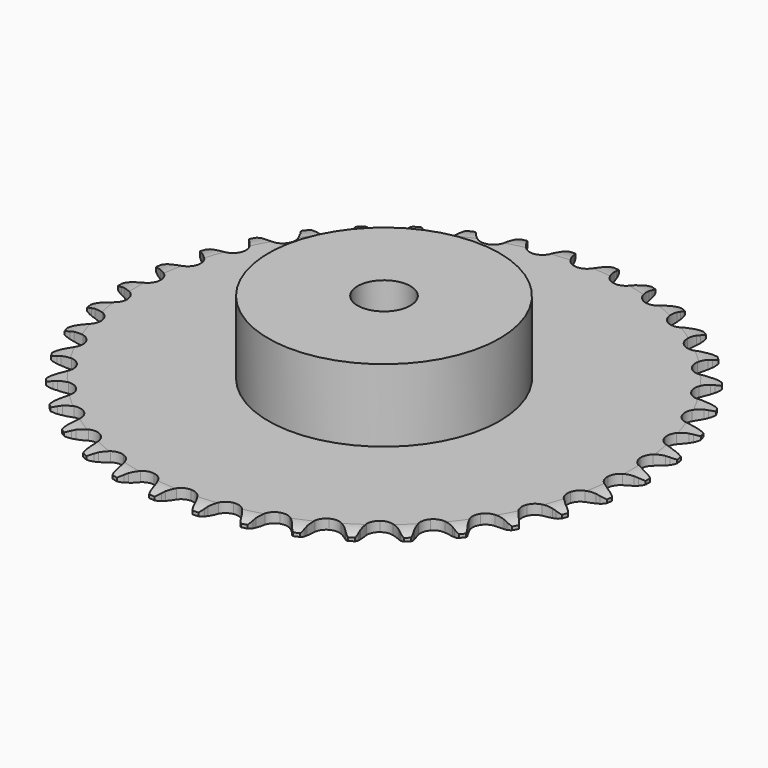
from build123d import *

# Parameters (mm, degrees)
PAD_DEPTH         = 3
SKETCH001_R       = 35
PAD001_DEPTH      = 25
SKETCH002_R       = 8
POCKET_DEPTH      = 0.001
POCKET_DEPTH_BACK = 25.001


with BuildPart() as part:
    # Sprocket → Pad (new body)
    with BuildSketch(Plane.XY):
        with BuildLine():
            ThreePointArc((-6.68958, 80.731222), (-5.640097, 79.553706), (-4.917352, 78.15171))
            Line((-4.917352, 78.15171), (-4.539398, 77.116251))
            ThreePointArc((-4.539398, 77.116251), (-3.941264, 75.784361), (-3.157921, 74.552262))
            ThreePointArc((-3.157921, 74.552262), (-1.767581, 73.382905), (0, 72.963266))
            ThreePointArc((0, 72.963266), (1.767581, 73.382905), (3.157921, 74.552262))
            ThreePointArc((3.157921, 74.552262), (3.941264, 75.784361), (4.539398, 77.116251))
            Line((4.539398, 77.116251), (4.917352, 78.15171))
            ThreePointArc((4.917352, 78.15171), (5.640097, 79.553706), (6.68958, 80.731222))
            ThreePointArc((6.68958, 80.731222), (7.530936, 79.397027), (8.013063, 77.895192))
            Line((8.013063, 77.895192), (8.215431, 76.811646))
            ThreePointArc((8.215431, 76.811646), (8.586185, 75.399472), (9.156048, 74.055243))
            ThreePointArc((9.156048, 74.055243), (10.334956, 72.672993), (12.009359, 71.968143))
            ThreePointArc((12.009359, 71.968143), (13.821903, 72.091124), (15.38575, 73.01569))
            Line((15.38575, 73.01569), (17.170405, 75.317326))
            ThreePointArc((17.170405, 75.317326), (17.428967, 75.804282), (17.713634, 76.276453))
            ThreePointArc((17.713634, 76.276453), (18.657284, 77.540368), (19.886265, 78.529084))
            ThreePointArc((19.886265, 78.529084), (20.496545, 77.074604), (20.724902, 75.513896))
            Line((20.724902, 75.513896), (20.746165, 74.41182))
            ThreePointArc((20.746165, 74.41182), (20.879426, 72.957882), (21.220264, 71.53819))
            ThreePointArc((21.220264, 71.53819), (22.155582, 69.98075), (23.691134, 69.009915))
            ThreePointArc((23.691134, 69.009915), (25.499199, 68.832885), (27.193896, 69.48744))
            Line((27.193896, 69.48744), (29.333047, 71.46394))
            ThreePointArc((29.333047, 71.46394), (29.668234, 71.901696), (30.026735, 72.320573))
            ThreePointArc((30.026735, 72.320573), (31.165548, 73.411931), (32.540505, 74.184878))
            ThreePointArc((32.540505, 74.184878), (32.903062, 72.649786), (32.871421, 71.072778))
            Line((32.871421, 71.072778), (32.710997, 69.982233))
            ThreePointArc((32.710997, 69.982233), (32.603131, 68.526191), (32.705646, 67.069762))
            ThreePointArc((32.705646, 67.069762), (33.371861, 65.379615), (34.726676, 64.169278))
            ThreePointArc((34.726676, 64.169278), (36.480944, 63.697064), (38.260263, 64.063753))
            Line((38.260263, 64.063753), (40.69556, 65.661204))
            ThreePointArc((40.69556, 65.661204), (41.098228, 66.03782), (41.520785, 66.391977))
            ThreePointArc((41.520785, 66.391977), (42.823697, 67.281007), (44.307124, 67.817102))
            ThreePointArc((44.307124, 67.817102), (44.412069, 66.243272), (44.121292, 64.69298))
            Line((44.121292, 64.69298), (43.783559, 63.643714))
            ThreePointArc((43.783559, 63.643714), (43.437507, 62.225284), (43.298904, 60.771845))
            ThreePointArc((43.298904, 60.771845), (43.677844, 58.995094), (44.814966, 57.578269))
            ThreePointArc((44.814966, 57.578269), (46.467583, 56.823753), (48.282991, 56.892575))
            Line((48.282991, 56.892575), (50.948005, 58.067402))
            ThreePointArc((50.948005, 58.067402), (51.407169, 58.372604), (51.882255, 58.65238))
            ThreePointArc((51.882255, 58.65238), (53.313727, 59.314833), (54.865161, 59.599452))
            ThreePointArc((54.865161, 59.599452), (54.70963, 58.029814), (54.16765, 56.548526))
            Line((54.16765, 56.548526), (53.661819, 55.56916))
            ThreePointArc((53.661819, 55.56916), (53.087021, 54.227034), (52.71108, 52.816231))
            ThreePointArc((52.71108, 52.816231), (52.792408, 51.001341), (53.68082, 49.416676))
            ThreePointArc((53.68082, 49.416676), (55.186708, 48.400438), (56.988684, 48.169515))
            Line((56.988684, 48.169515), (59.810721, 48.889672))
            ThreePointArc((59.810721, 48.889672), (60.313858, 49.115136), (60.828514, 49.312899))
            ThreePointArc((60.828514, 49.312899), (62.349498, 49.730705), (63.926619, 49.756085))
            ThreePointArc((63.926619, 49.756085), (63.514855, 48.233454), (62.736455, 46.861576))
            Line((62.736455, 46.861576), (62.076325, 45.978824))
            ThreePointArc((62.076325, 45.978824), (61.28846, 44.749611), (60.685436, 43.419928))
            ThreePointArc((60.685436, 43.419928), (60.466933, 41.616405), (61.082401, 39.907124))
            ThreePointArc((61.082401, 39.907124), (62.400484, 38.656885), (64.139874, 38.132517))
            Line((64.139874, 38.132517), (67.041956, 38.378359))
            ThreePointArc((67.041956, 38.378359), (67.575341, 38.517935), (68.115528, 38.628292))
            ThreePointArc((68.115528, 38.628292), (69.684537, 38.790053), (71.244326, 38.555501))
            ThreePointArc((71.244326, 38.555501), (70.587561, 37.121411), (69.593974, 35.896364))
            Line((69.593974, 35.896364), (68.79755, 35.134305))
            ThreePointArc((68.79755, 35.134305), (67.818109, 34.051536), (67.004451, 32.839242))
            ThreePointArc((67.004451, 32.839242), (66.492078, 31.096281), (66.817813, 29.30901))
            ThreePointArc((66.817813, 29.30901), (67.912137, 27.858874), (69.541496, 27.055363))
            Line((69.541496, 27.055363), (72.444461, 26.820185))
            ThreePointArc((72.444461, 26.820185), (72.993545, 26.870065), (73.544529, 26.890004))
            ThreePointArc((73.544529, 26.890004), (75.118764, 26.791309), (76.618673, 26.303224))
            ThreePointArc((76.618673, 26.303224), (75.734822, 24.996792), (74.55315, 23.951993))
            Line((74.55315, 23.951993), (73.642158, 23.331414))
            ThreePointArc((73.642158, 23.331414), (72.497857, 22.424624), (71.495759, 21.362788))
            ThreePointArc((71.495759, 21.362788), (70.703493, 19.727932), (70.73061, 17.911423))
            ThreePointArc((70.73061, 17.911423), (71.571324, 16.300945), (73.046207, 15.240209))
            Line((73.046207, 15.240209), (75.870871, 14.530427))
            ThreePointArc((75.870871, 14.530427), (76.420676, 14.48925), (76.967427, 14.418228))
            ThreePointArc((76.967427, 14.418228), (78.503946, 14.061768), (79.903063, 13.333463))
            ThreePointArc((79.903063, 13.333463), (78.816235, 12.190327), (77.47871, 11.354274))
            Line((77.47871, 11.354274), (76.477999, 10.892103))
            ThreePointArc((76.477999, 10.892103), (75.200052, 10.186026), (74.036849, 9.303612))
            ThreePointArc((74.036849, 9.303612), (72.9863, 7.821456), (72.71406, 6.025259))
            ThreePointArc((72.71406, 6.025259), (73.278231, 4.298368), (74.558408, 3.009342))
            Line((74.558408, 3.009342), (77.227721, 1.844316))
            ThreePointArc((77.227721, 1.844316), (77.763249, 1.713206), (78.290854, 1.55316))
            ThreePointArc((78.290854, 1.55316), (79.747746, 0.948659), (81.007905, 0))
            ThreePointArc((81.007905, 0), (79.747746, -0.948659), (78.290854, -1.55316))
            Line((78.290854, -1.55316), (77.227721, -1.844316))
            ThreePointArc((77.227721, -1.844316), (75.850986, -2.33042), (74.558408, -3.009342))
            ThreePointArc((74.558408, -3.009342), (73.278231, -4.298368), (72.71406, -6.025259))
            ThreePointArc((72.71406, -6.025259), (72.9863, -7.821456), (74.036849, -9.303612))
            Line((74.036849, -9.303612), (76.477999, -10.892103))
            ThreePointArc((76.477999, -10.892103), (76.984644, -11.109571), (77.47871, -11.354274))
            ThreePointArc((77.47871, -11.354274), (78.816235, -12.190327), (79.903063, -13.333463))
            ThreePointArc((79.903063, -13.333463), (78.503946, -14.061768), (76.967427, -14.418228))
            Line((76.967427, -14.418228), (75.870871, -14.530427))
            ThreePointArc((75.870871, -14.530427), (74.432903, -14.783298), (73.046207, -15.240209))
            ThreePointArc((73.046207, -15.240209), (71.571324, -16.300945), (70.73061, -17.911423))
            ThreePointArc((70.73061, -17.911423), (70.703493, -19.727932), (71.495759, -21.362788))
            Line((71.495759, -21.362788), (73.642158, -23.331414))
            ThreePointArc((73.642158, -23.331414), (74.106099, -23.629306), (74.55315, -23.951993))
            ThreePointArc((74.55315, -23.951993), (75.734822, -24.996792), (76.618673, -26.303224))
            ThreePointArc((76.618673, -26.303224), (75.118764, -26.791309), (73.544529, -26.890004))
            Line((73.544529, -26.890004), (72.444461, -26.820185))
            ThreePointArc((72.444461, -26.820185), (70.984484, -26.832926), (69.541496, -27.055363))
            ThreePointArc((69.541496, -27.055363), (67.912137, -27.858874), (66.817813, -29.30901))
            ThreePointArc((66.817813, -29.30901), (66.492078, -31.096281), (67.004451, -32.839242))
            Line((67.004451, -32.839242), (68.79755, -35.134305))
            ThreePointArc((68.79755, -35.134305), (69.206132, -35.504497), (69.593974, -35.896364))
            ThreePointArc((69.593974, -35.896364), (70.587561, -37.121411), (71.244326, -38.555501))
            ThreePointArc((71.244326, -38.555501), (69.684537, -38.790053), (68.115528, -38.628292))
            Line((68.115528, -38.628292), (67.041956, -38.378359))
            ThreePointArc((67.041956, -38.378359), (65.599794, -38.150622), (64.139874, -38.132517))
            ThreePointArc((64.139874, -38.132517), (62.400484, -38.656885), (61.082401, -39.907124))
            ThreePointArc((61.082401, -39.907124), (60.466933, -41.616405), (60.685436, -43.419928))
            Line((60.685436, -43.419928), (62.076325, -45.978824))
            ThreePointArc((62.076325, -45.978824), (62.418403, -46.411216), (62.736455, -46.861576))
            ThreePointArc((62.736455, -46.861576), (63.514855, -48.233454), (63.926619, -49.756085))
            ThreePointArc((63.926619, -49.756085), (62.349498, -49.730705), (60.828514, -49.312899))
            Line((60.828514, -49.312899), (59.810721, -48.889672))
            ThreePointArc((59.810721, -48.889672), (58.425712, -48.427669), (56.988684, -48.169515))
            ThreePointArc((56.988684, -48.169515), (55.186708, -48.400438), (53.68082, -49.416676))
            ThreePointArc((53.68082, -49.416676), (52.792408, -51.001341), (52.71108, -52.816231))
            Line((52.71108, -52.816231), (53.661819, -55.56916))
            ThreePointArc((53.661819, -55.56916), (53.928062, -56.051959), (54.16765, -56.548526))
            ThreePointArc((54.16765, -56.548526), (54.70963, -58.029814), (54.865161, -59.599452))
            ThreePointArc((54.865161, -59.599452), (53.313727, -59.314833), (51.882255, -58.65238))
            Line((51.882255, -58.65238), (50.948005, -58.067402))
            ThreePointArc((50.948005, -58.067402), (49.657929, -57.383735), (48.282991, -56.892575))
            ThreePointArc((48.282991, -56.892575), (46.467583, -56.823753), (44.814966, -57.578269))
            ThreePointArc((44.814966, -57.578269), (43.677844, -58.995094), (43.298904, -60.771845))
            Line((43.298904, -60.771845), (43.783559, -63.643714))
            ThreePointArc((43.783559, -63.643714), (43.966704, -64.163751), (44.121292, -64.69298))
            ThreePointArc((44.121292, -64.69298), (44.412069, -66.243272), (44.307124, -67.817102))
            ThreePointArc((44.307124, -67.817102), (42.823697, -67.281007), (41.520785, -66.391977))
            Line((41.520785, -66.391977), (40.69556, -65.661204))
            ThreePointArc((40.69556, -65.661204), (39.535608, -64.774522), (38.260263, -64.063753))
            ThreePointArc((38.260263, -64.063753), (36.480944, -63.697064), (34.726676, -64.169278))
            ThreePointArc((34.726676, -64.169278), (33.371861, -65.379615), (32.705646, -67.069762))
            Line((32.705646, -67.069762), (32.710997, -69.982233))
            ThreePointArc((32.710997, -69.982233), (32.806049, -70.525323), (32.871421, -71.072778))
            ThreePointArc((32.871421, -71.072778), (32.903062, -72.649786), (32.540505, -74.184878))
            ThreePointArc((32.540505, -74.184878), (31.165548, -73.411931), (30.026735, -72.320573))
            Line((30.026735, -72.320573), (29.333047, -71.46394))
            ThreePointArc((29.333047, -71.46394), (28.334858, -70.398429), (27.193896, -69.48744))
            ThreePointArc((27.193896, -69.48744), (25.499199, -68.832885), (23.691134, -69.009915))
            ThreePointArc((23.691134, -69.009915), (22.155582, -69.98075), (21.220264, -71.53819))
            Line((21.220264, -71.53819), (20.746165, -74.41182))
            ThreePointArc((20.746165, -74.41182), (20.750531, -74.963148), (20.724902, -75.513896))
            ThreePointArc((20.724902, -75.513896), (20.496545, -77.074604), (19.886265, -78.529084))
            ThreePointArc((19.886265, -78.529084), (18.657284, -77.540368), (17.713634, -76.276453))
            Line((17.713634, -76.276453), (17.170405, -75.317326))
            ThreePointArc((17.170405, -75.317326), (16.361207, -74.102051), (15.38575, -73.01569))
            ThreePointArc((15.38575, -73.01569), (13.821903, -72.091124), (12.009359, -71.968143))
            ThreePointArc((12.009359, -71.968143), (10.334956, -72.672993), (9.156048, -74.055243))
            Line((9.156048, -74.055243), (8.215431, -76.811646))
            ThreePointArc((8.215431, -76.811646), (8.128992, -77.356173), (8.013063, -77.895192))
            ThreePointArc((8.013063, -77.895192), (7.530936, -79.397027), (6.68958, -80.731222))
            ThreePointArc((6.68958, -80.731222), (5.640097, -79.553706), (4.917352, -78.15171))
            Line((4.917352, -78.15171), (4.539398, -77.116251))
            ThreePointArc((4.539398, -77.116251), (3.941264, -75.784361), (3.157921, -74.552262))
            ThreePointArc((3.157921, -74.552262), (1.767581, -73.382905), (0, -72.963266))
            ThreePointArc((0, -72.963266), (-1.767581, -73.382905), (-3.157921, -74.552262))
            Line((-3.157921, -74.552262), (-4.539398, -77.116251))
            ThreePointArc((-4.539398, -77.116251), (-4.714284, -77.639124), (-4.917352, -78.15171))
            ThreePointArc((-4.917352, -78.15171), (-5.640097, -79.553706), (-6.68958, -80.731222))
            ThreePointArc((-6.68958, -80.731222), (-7.530936, -79.397027), (-8.013063, -77.895192))
            Line((-8.013063, -77.895192), (-8.215431, -76.811646))
            ThreePointArc((-8.215431, -76.811646), (-8.586185, -75.399472), (-9.156048, -74.055243))
            ThreePointArc((-9.156048, -74.055243), (-10.334956, -72.672993), (-12.009359, -71.968143))
            ThreePointArc((-12.009359, -71.968143), (-13.821903, -72.091124), (-15.38575, -73.01569))
            Line((-15.38575, -73.01569), (-17.170405, -75.317326))
            ThreePointArc((-17.170405, -75.317326), (-17.428967, -75.804282), (-17.713634, -76.276453))
            ThreePointArc((-17.713634, -76.276453), (-18.657284, -77.540368), (-19.886265, -78.529084))
            ThreePointArc((-19.886265, -78.529084), (-20.496545, -77.074604), (-20.724902, -75.513896))
            Line((-20.724902, -75.513896), (-20.746165, -74.41182))
            ThreePointArc((-20.746165, -74.41182), (-20.879426, -72.957882), (-21.220264, -71.53819))
            ThreePointArc((-21.220264, -71.53819), (-22.155582, -69.98075), (-23.691134, -69.009915))
            ThreePointArc((-23.691134, -69.009915), (-25.499199, -68.832885), (-27.193896, -69.48744))
            Line((-27.193896, -69.48744), (-29.333047, -71.46394))
            ThreePointArc((-29.333047, -71.46394), (-29.668234, -71.901696), (-30.026735, -72.320573))
            ThreePointArc((-30.026735, -72.320573), (-31.165548, -73.411931), (-32.540505, -74.184878))
            ThreePointArc((-32.540505, -74.184878), (-32.903062, -72.649786), (-32.871421, -71.072778))
            Line((-32.871421, -71.072778), (-32.710997, -69.982233))
            ThreePointArc((-32.710997, -69.982233), (-32.603131, -68.526191), (-32.705646, -67.069762))
            ThreePointArc((-32.705646, -67.069762), (-33.371861, -65.379615), (-34.726676, -64.169278))
            ThreePointArc((-34.726676, -64.169278), (-36.480944, -63.697064), (-38.260263, -64.063753))
            Line((-38.260263, -64.063753), (-40.69556, -65.661204))
            ThreePointArc((-40.69556, -65.661204), (-41.098228, -66.03782), (-41.520785, -66.391977))
            ThreePointArc((-41.520785, -66.391977), (-42.823697, -67.281007), (-44.307124, -67.817102))
            ThreePointArc((-44.307124, -67.817102), (-44.412069, -66.243272), (-44.121292, -64.69298))
            Line((-44.121292, -64.69298), (-43.783559, -63.643714))
            ThreePointArc((-43.783559, -63.643714), (-43.437507, -62.225284), (-43.298904, -60.771845))
            ThreePointArc((-43.298904, -60.771845), (-43.677844, -58.995094), (-44.814966, -57.578269))
            ThreePointArc((-44.814966, -57.578269), (-46.467583, -56.823753), (-48.282991, -56.892575))
            Line((-48.282991, -56.892575), (-50.948005, -58.067402))
            ThreePointArc((-50.948005, -58.067402), (-51.407169, -58.372604), (-51.882255, -58.65238))
            ThreePointArc((-51.882255, -58.65238), (-53.313727, -59.314833), (-54.865161, -59.599452))
            ThreePointArc((-54.865161, -59.599452), (-54.70963, -58.029814), (-54.16765, -56.548526))
            Line((-54.16765, -56.548526), (-53.661819, -55.56916))
            ThreePointArc((-53.661819, -55.56916), (-53.087021, -54.227034), (-52.71108, -52.816231))
            ThreePointArc((-52.71108, -52.816231), (-52.792408, -51.001341), (-53.68082, -49.416676))
            ThreePointArc((-53.68082, -49.416676), (-55.186708, -48.400438), (-56.988684, -48.169515))
            Line((-56.988684, -48.169515), (-59.810721, -48.889672))
            ThreePointArc((-59.810721, -48.889672), (-60.313858, -49.115136), (-60.828514, -49.312899))
            ThreePointArc((-60.828514, -49.312899), (-62.349498, -49.730705), (-63.926619, -49.756085))
            ThreePointArc((-63.926619, -49.756085), (-63.514855, -48.233454), (-62.736455, -46.861576))
            Line((-62.736455, -46.861576), (-62.076325, -45.978824))
            ThreePointArc((-62.076325, -45.978824), (-61.28846, -44.749611), (-60.685436, -43.419928))
            ThreePointArc((-60.685436, -43.419928), (-60.466933, -41.616405), (-61.082401, -39.907124))
            ThreePointArc((-61.082401, -39.907124), (-62.400484, -38.656885), (-64.139874, -38.132517))
            Line((-64.139874, -38.132517), (-67.041956, -38.378359))
            ThreePointArc((-67.041956, -38.378359), (-67.575341, -38.517935), (-68.115528, -38.628292))
            ThreePointArc((-68.115528, -38.628292), (-69.684537, -38.790053), (-71.244326, -38.555501))
            ThreePointArc((-71.244326, -38.555501), (-70.587561, -37.121411), (-69.593974, -35.896364))
            Line((-69.593974, -35.896364), (-68.79755, -35.134305))
            ThreePointArc((-68.79755, -35.134305), (-67.818109, -34.051536), (-67.004451, -32.839242))
            ThreePointArc((-67.004451, -32.839242), (-66.492078, -31.096281), (-66.817813, -29.30901))
            ThreePointArc((-66.817813, -29.30901), (-67.912137, -27.858874), (-69.541496, -27.055363))
            Line((-69.541496, -27.055363), (-72.444461, -26.820185))
            ThreePointArc((-72.444461, -26.820185), (-72.993545, -26.870065), (-73.544529, -26.890004))
            ThreePointArc((-73.544529, -26.890004), (-75.118764, -26.791309), (-76.618673, -26.303224))
            ThreePointArc((-76.618673, -26.303224), (-75.734822, -24.996792), (-74.55315, -23.951993))
            Line((-74.55315, -23.951993), (-73.642158, -23.331414))
            ThreePointArc((-73.642158, -23.331414), (-72.497857, -22.424624), (-71.495759, -21.362788))
            ThreePointArc((-71.495759, -21.362788), (-70.703493, -19.727932), (-70.73061, -17.911423))
            ThreePointArc((-70.73061, -17.911423), (-71.571324, -16.300945), (-73.046207, -15.240209))
            Line((-73.046207, -15.240209), (-75.870871, -14.530427))
            ThreePointArc((-75.870871, -14.530427), (-76.420676, -14.48925), (-76.967427, -14.418228))
            ThreePointArc((-76.967427, -14.418228), (-78.503946, -14.061768), (-79.903063, -13.333463))
            ThreePointArc((-79.903063, -13.333463), (-78.816235, -12.190327), (-77.47871, -11.354274))
            Line((-77.47871, -11.354274), (-76.477999, -10.892103))
            ThreePointArc((-76.477999, -10.892103), (-75.200052, -10.186026), (-74.036849, -9.303612))
            ThreePointArc((-74.036849, -9.303612), (-72.9863, -7.821456), (-72.71406, -6.025259))
            ThreePointArc((-72.71406, -6.025259), (-73.278231, -4.298368), (-74.558408, -3.009342))
            Line((-74.558408, -3.009342), (-77.227721, -1.844316))
            ThreePointArc((-77.227721, -1.844316), (-77.763249, -1.713206), (-78.290854, -1.55316))
            ThreePointArc((-78.290854, -1.55316), (-79.747746, -0.948659), (-81.007905, 0))
            ThreePointArc((-81.007905, 0), (-79.747746, 0.948659), (-78.290854, 1.55316))
            Line((-78.290854, 1.55316), (-77.227721, 1.844316))
            ThreePointArc((-77.227721, 1.844316), (-75.850986, 2.33042), (-74.558408, 3.009342))
            ThreePointArc((-74.558408, 3.009342), (-73.278231, 4.298368), (-72.71406, 6.025259))
            ThreePointArc((-72.71406, 6.025259), (-72.9863, 7.821456), (-74.036849, 9.303612))
            Line((-74.036849, 9.303612), (-76.477999, 10.892103))
            ThreePointArc((-76.477999, 10.892103), (-76.984644, 11.109571), (-77.47871, 11.354274))
            ThreePointArc((-77.47871, 11.354274), (-78.816235, 12.190327), (-79.903063, 13.333463))
            ThreePointArc((-79.903063, 13.333463), (-78.503946, 14.061768), (-76.967427, 14.418228))
            Line((-76.967427, 14.418228), (-75.870871, 14.530427))
            ThreePointArc((-75.870871, 14.530427), (-74.432903, 14.783298), (-73.046207, 15.240209))
            ThreePointArc((-73.046207, 15.240209), (-71.571324, 16.300945), (-70.73061, 17.911423))
            ThreePointArc((-70.73061, 17.911423), (-70.703493, 19.727932), (-71.495759, 21.362788))
            Line((-71.495759, 21.362788), (-73.642158, 23.331414))
            ThreePointArc((-73.642158, 23.331414), (-74.106099, 23.629306), (-74.55315, 23.951993))
            ThreePointArc((-74.55315, 23.951993), (-75.734822, 24.996792), (-76.618673, 26.303224))
            ThreePointArc((-76.618673, 26.303224), (-75.118764, 26.791309), (-73.544529, 26.890004))
            Line((-73.544529, 26.890004), (-72.444461, 26.820185))
            ThreePointArc((-72.444461, 26.820185), (-70.984484, 26.832926), (-69.541496, 27.055363))
            ThreePointArc((-69.541496, 27.055363), (-67.912137, 27.858874), (-66.817813, 29.30901))
            ThreePointArc((-66.817813, 29.30901), (-66.492078, 31.096281), (-67.004451, 32.839242))
            Line((-67.004451, 32.839242), (-68.79755, 35.134305))
            ThreePointArc((-68.79755, 35.134305), (-69.206132, 35.504497), (-69.593974, 35.896364))
            ThreePointArc((-69.593974, 35.896364), (-70.587561, 37.121411), (-71.244326, 38.555501))
            ThreePointArc((-71.244326, 38.555501), (-69.684537, 38.790053), (-68.115528, 38.628292))
            Line((-68.115528, 38.628292), (-67.041956, 38.378359))
            ThreePointArc((-67.041956, 38.378359), (-65.599794, 38.150622), (-64.139874, 38.132517))
            ThreePointArc((-64.139874, 38.132517), (-62.400484, 38.656885), (-61.082401, 39.907124))
            ThreePointArc((-61.082401, 39.907124), (-60.466933, 41.616405), (-60.685436, 43.419928))
            Line((-60.685436, 43.419928), (-62.076325, 45.978824))
            ThreePointArc((-62.076325, 45.978824), (-62.418403, 46.411216), (-62.736455, 46.861576))
            ThreePointArc((-62.736455, 46.861576), (-63.514855, 48.233454), (-63.926619, 49.756085))
            ThreePointArc((-63.926619, 49.756085), (-62.349498, 49.730705), (-60.828514, 49.312899))
            Line((-60.828514, 49.312899), (-59.810721, 48.889672))
            ThreePointArc((-59.810721, 48.889672), (-58.425712, 48.427669), (-56.988684, 48.169515))
            ThreePointArc((-56.988684, 48.169515), (-55.186708, 48.400438), (-53.68082, 49.416676))
            ThreePointArc((-53.68082, 49.416676), (-52.792408, 51.001341), (-52.71108, 52.816231))
            Line((-52.71108, 52.816231), (-53.661819, 55.56916))
            ThreePointArc((-53.661819, 55.56916), (-53.928062, 56.051959), (-54.16765, 56.548526))
            ThreePointArc((-54.16765, 56.548526), (-54.70963, 58.029814), (-54.865161, 59.599452))
            ThreePointArc((-54.865161, 59.599452), (-53.313727, 59.314833), (-51.882255, 58.65238))
            Line((-51.882255, 58.65238), (-50.948005, 58.067402))
            ThreePointArc((-50.948005, 58.067402), (-49.657929, 57.383735), (-48.282991, 56.892575))
            ThreePointArc((-48.282991, 56.892575), (-46.467583, 56.823753), (-44.814966, 57.578269))
            ThreePointArc((-44.814966, 57.578269), (-43.677844, 58.995094), (-43.298904, 60.771845))
            Line((-43.298904, 60.771845), (-43.783559, 63.643714))
            ThreePointArc((-43.783559, 63.643714), (-43.966704, 64.163751), (-44.121292, 64.69298))
            ThreePointArc((-44.121292, 64.69298), (-44.412069, 66.243272), (-44.307124, 67.817102))
            ThreePointArc((-44.307124, 67.817102), (-42.823697, 67.281007), (-41.520785, 66.391977))
            Line((-41.520785, 66.391977), (-40.69556, 65.661204))
            ThreePointArc((-40.69556, 65.661204), (-39.535608, 64.774522), (-38.260263, 64.063753))
            ThreePointArc((-38.260263, 64.063753), (-36.480944, 63.697064), (-34.726676, 64.169278))
            ThreePointArc((-34.726676, 64.169278), (-33.371861, 65.379615), (-32.705646, 67.069762))
            Line((-32.705646, 67.069762), (-32.710997, 69.982233))
            ThreePointArc((-32.710997, 69.982233), (-32.806049, 70.525323), (-32.871421, 71.072778))
            ThreePointArc((-32.871421, 71.072778), (-32.903062, 72.649786), (-32.540505, 74.184878))
            ThreePointArc((-32.540505, 74.184878), (-31.165548, 73.411931), (-30.026735, 72.320573))
            Line((-30.026735, 72.320573), (-29.333047, 71.46394))
            ThreePointArc((-29.333047, 71.46394), (-28.334858, 70.398429), (-27.193896, 69.48744))
            ThreePointArc((-27.193896, 69.48744), (-25.499199, 68.832885), (-23.691134, 69.009915))
            ThreePointArc((-23.691134, 69.009915), (-22.155582, 69.98075), (-21.220264, 71.53819))
            Line((-21.220264, 71.53819), (-20.746165, 74.41182))
            ThreePointArc((-20.746165, 74.41182), (-20.750531, 74.963148), (-20.724902, 75.513896))
            ThreePointArc((-20.724902, 75.513896), (-20.496545, 77.074604), (-19.886265, 78.529084))
            ThreePointArc((-19.886265, 78.529084), (-18.657284, 77.540368), (-17.713634, 76.276453))
            Line((-17.713634, 76.276453), (-17.170405, 75.317326))
            ThreePointArc((-17.170405, 75.317326), (-16.361207, 74.102051), (-15.38575, 73.01569))
            ThreePointArc((-15.38575, 73.01569), (-13.821903, 72.091124), (-12.009359, 71.968143))
            ThreePointArc((-12.009359, 71.968143), (-10.334956, 72.672993), (-9.156048, 74.055243))
            Line((-9.156048, 74.055243), (-8.215431, 76.811646))
            ThreePointArc((-8.215431, 76.811646), (-8.128992, 77.356173), (-8.013063, 77.895192))
            ThreePointArc((-8.013063, 77.895192), (-7.530936, 79.397027), (-6.68958, 80.731222))
        make_face()
    extrude(amount=PAD_DEPTH)

    # Sketch → Groove (revolve, cut)
    with BuildSketch(Plane.XZ):
        with BuildLine():
            Line((74.9, 0), (79.9, 0))
            Line((84.9, 0), (79.9, 0))
            Line((84.9, 3), (84.9, 0))
            Line((79.9, 3), (84.9, 3))
            Line((74.9, 3), (79.9, 3))
            ThreePointArc((79.9, 2), (77.44951, 2.747549), (74.9, 3))
            Line((79.9, 1), (79.9, 2))
            ThreePointArc((74.9, 0), (77.44951, 0.252451), (79.9, 1))
        make_face()
    revolve(axis=Axis((0, 0, 0), (0, 0, 1)), mode=Mode.SUBTRACT)

    # Sketch001 → Pad001 (join)
    with BuildSketch(Plane.XY):
        Circle(SKETCH001_R)
    extrude(amount=PAD001_DEPTH)

    # Sketch002 → Pocket (cut, two sides)
    with BuildSketch(Plane.XY) as pocket_sk:
        Circle(SKETCH002_R)
    extrude(amount=-POCKET_DEPTH, mode=Mode.SUBTRACT)
    extrude(pocket_sk.sketch, amount=POCKET_DEPTH_BACK, mode=Mode.SUBTRACT)


solid = part.part
